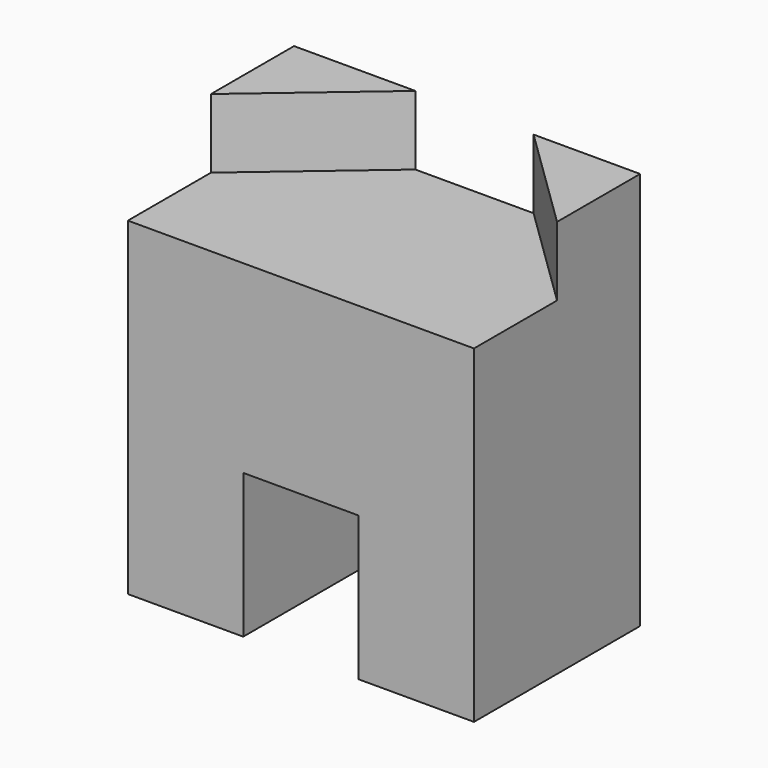
from build123d import *

# Parameters (mm, degrees)
F0_W      = 600
F0_H      = 570
F1_DEPTH  = 360
F2_W      = 200
F2_H      = 250
F3_DEPTH  = 500
F4_W      = 210.372046
F4_H      = 180
F5_DEPTH  = 120
F7_DEPTH  = 120
F8_W      = 184.683776
F8_H      = 180
F9_DEPTH  = 120
F11_DEPTH = 120


with BuildPart() as f1:
    # F0 (on Front) → F1 (new body)
    with BuildSketch(Plane.XZ):
        Rectangle(F0_W, F0_H)
    extrude(amount=F1_DEPTH)

    # F2 (on face) → F3 (cut)
    with BuildSketch(Plane.XZ.offset(360)):
        with Locations((0, -160)):
            Rectangle(F2_W, F2_H)
    extrude(amount=-F3_DEPTH, mode=Mode.SUBTRACT)

    # F4 (on face) → F5 (join)
    with BuildSketch(Plane.XY.offset(285)):
        with Locations((-194.813977, -90)):
            Rectangle(F4_W, F4_H)
    extrude(amount=F5_DEPTH)

    # F6 (on face) → F7 (cut)
    with BuildSketch(Plane.XY.offset(405)):
        Polygon((-89.627954, -180), (-89.627954, 0), (-300, -180), align=None)
    extrude(amount=-F7_DEPTH, mode=Mode.SUBTRACT)

    # F8 (on face) → F9 (join)
    with BuildSketch(Plane.XY.offset(285)):
        with Locations((207.658112, -90)):
            Rectangle(F8_W, F8_H)
    extrude(amount=F9_DEPTH)

    # F10 (on face) → F11 (cut)
    with BuildSketch(Plane.XY.offset(405)):
        Polygon((300, -180), (115.316224, 0), (115.316224, -180), align=None)
    extrude(amount=-F11_DEPTH, mode=Mode.SUBTRACT)


solid = f1.part
